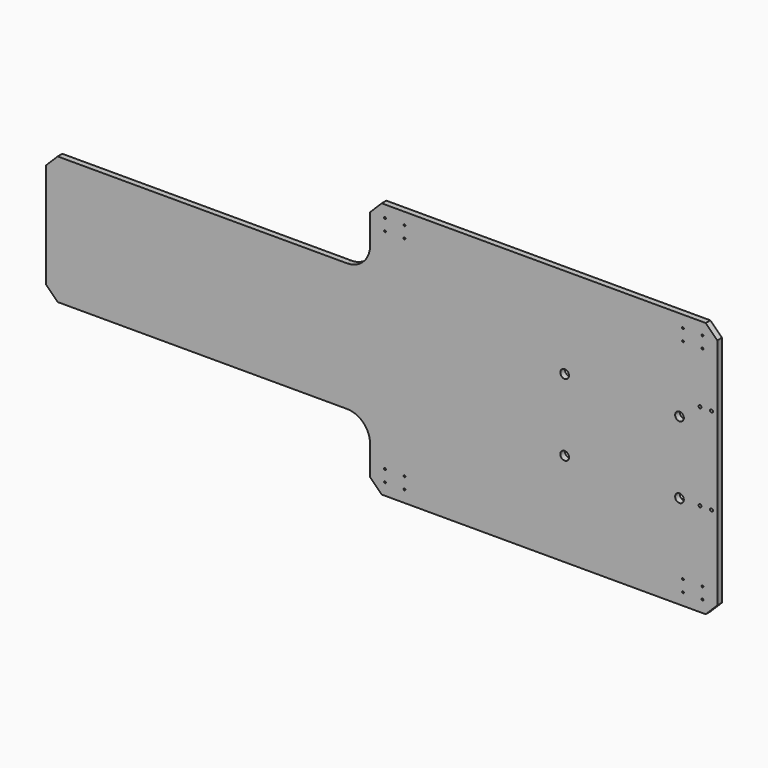
from build123d import *

# Parameters (mm, degrees)
F1_DEPTH = 12.7
F3_D     = 19.05
F5_D     = 6.35
F7_D     = 3.96748


with BuildPart() as f1:
    # F0 (on Front) → F1 (new body)
    with BuildSketch(Plane.XZ):
        with BuildLine():
            Line((711.2, 25.4), (736.6, 0))
            Line((736.6, 0), (1447.8, 0))
            Line((1447.8, 0), (1473.2, 25.4))
            Line((1473.2, 25.4), (1473.2, 537.3624))
            Line((1473.2, 537.3624), (1447.8, 562.7624))
            Line((1447.8, 562.7624), (736.6, 562.7624))
            Line((736.6, 562.7624), (711.2, 537.3624))
            Line((711.2, 537.3624), (711.2, 472.8718))
            ThreePointArc((711.2, 472.8718), (696.321024, 436.950776), (660.4, 422.0718))
            Line((660.4, 422.0718), (25.4, 422.0718))
            Line((25.4, 422.0718), (0, 396.6718))
            Line((0, 396.6718), (0, 166.0906))
            Line((0, 166.0906), (25.4, 140.6906))
            Line((25.4, 140.6906), (660.4, 140.6906))
            ThreePointArc((660.4, 140.6906), (696.321024, 125.811624), (711.2, 89.8906))
            Line((711.2, 89.8906), (711.2, 25.4))
        make_face()
    extrude(amount=F1_DEPTH)

    # F3 (through all)
    with Locations(Plane.XZ.offset(12.7)):
        with Locations((1138.202135, 363.479406), (1138.202135, 205.5876), (1390.193105, 205.5876), (1390.193105, 363.479406)):
            Hole(F3_D / 2)

    # F5 (through all)
    with Locations(Plane.XZ.offset(12.7)):
        with Locations((1435.1, 396.862477), (1460.5, 396.862477), (1435.1, 205.5876), (1460.5, 205.5876)):
            Hole(F5_D / 2)

    # F7 (through all)
    with Locations(Plane.XZ.offset(12.7)):
        with Locations((743.7374, 536.535431), (743.7374, 511.135431), (786.6126, 511.135431), (786.6126, 536.535431), (743.7374, 26.226969), (743.7374, 51.626969), (786.6126, 51.626969), (786.6126, 26.226969), (1397.7874, 26.226969), (1397.7874, 51.626969), (1440.6626, 26.226969), (1440.6626, 51.626969), (1397.7874, 511.135431), (1397.7874, 536.535431), (1440.6626, 536.535431), (1440.6626, 511.135431)):
            Hole(F7_D / 2)


solid = f1.part
